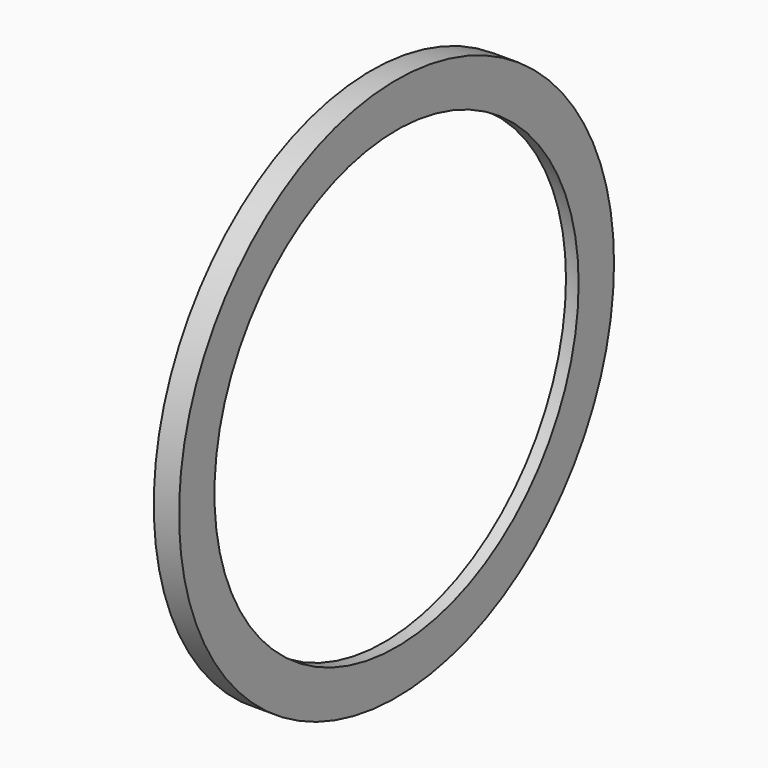
from build123d import *

# Parameters (mm, degrees)
F0_R     = 21.5
F0_R_2   = 18
F1_DEPTH = 2
F2_R     = 20
F2_R_2   = 15.707992
F3_DEPTH = 1


with BuildPart() as f1:
    # F0 (on Right) → F1 (new body)
    with BuildSketch(Plane.YZ):
        Circle(F0_R)
        Circle(F0_R_2, mode=Mode.SUBTRACT)
    extrude(amount=F1_DEPTH)

    # F2 (on Right) → F3 (cut)
    with BuildSketch(Plane.YZ):
        Circle(F2_R)
        Circle(F2_R_2, mode=Mode.SUBTRACT)
    extrude(amount=F3_DEPTH, mode=Mode.SUBTRACT)


solid = f1.part
